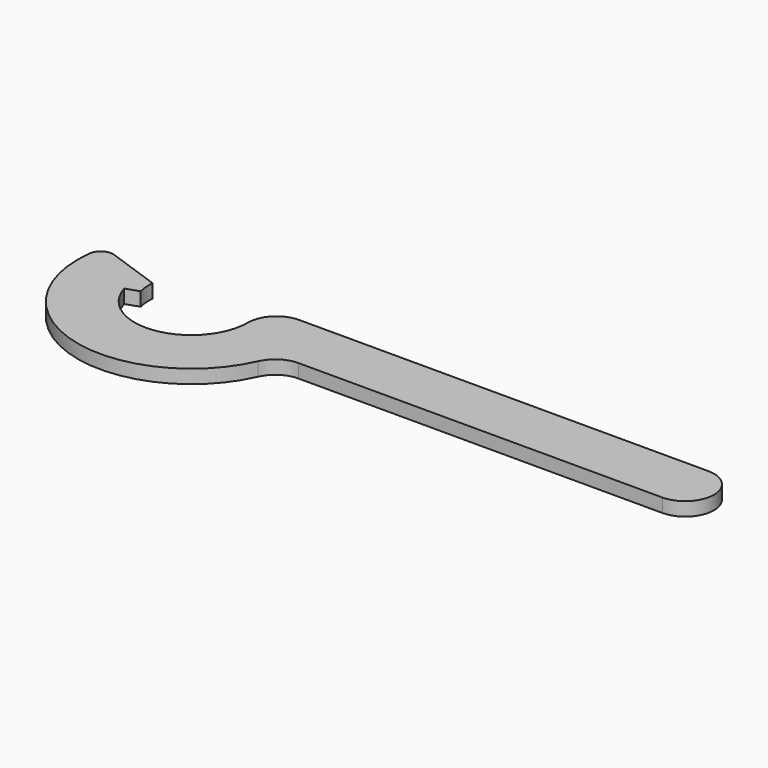
from build123d import *

# Parameters (mm, degrees)
F2_DEPTH = 3


with BuildPart() as f2:
    # F1 (on Top) → F2 (new body)
    with BuildSketch(Plane.XY):
        with BuildLine():
            ThreePointArc((-12.8, -1.363012), (-10.41988, 1.416668), (-6.91069, 2.454538))
            Line((-6.91069, 2.454538), (73.08931, 2.454538))
            ThreePointArc((73.08931, 2.454538), (79.38931, 8.754538), (73.08931, 15.054538))
            Line((73.08931, 15.054538), (-16.91069, 15.054538))
            ThreePointArc((-16.91069, 15.054538), (-21.302441, 13.235416), (-23.121563, 8.843666))
            ThreePointArc((-23.121563, 8.843666), (-33.882827, -3.534816), (-47.637851, 5.4))
            Line((-47.637851, 5.4), (-44.798864, 6.38864))
            ThreePointArc((-44.798864, 6.38864), (-45.098507, 8.182202), (-45.050926, 10))
            Line((-45.050926, 10), (-56.859772, 14.135399))
            ThreePointArc((-56.859772, 14.135399), (-59.175607, 13.881434), (-60.43165, 11.919306))
            ThreePointArc((-60.43165, 11.919306), (-42.336736, -15.237581), (-12.8, -1.363012))
        make_face()
    extrude(amount=F2_DEPTH)


solid = f2.part
